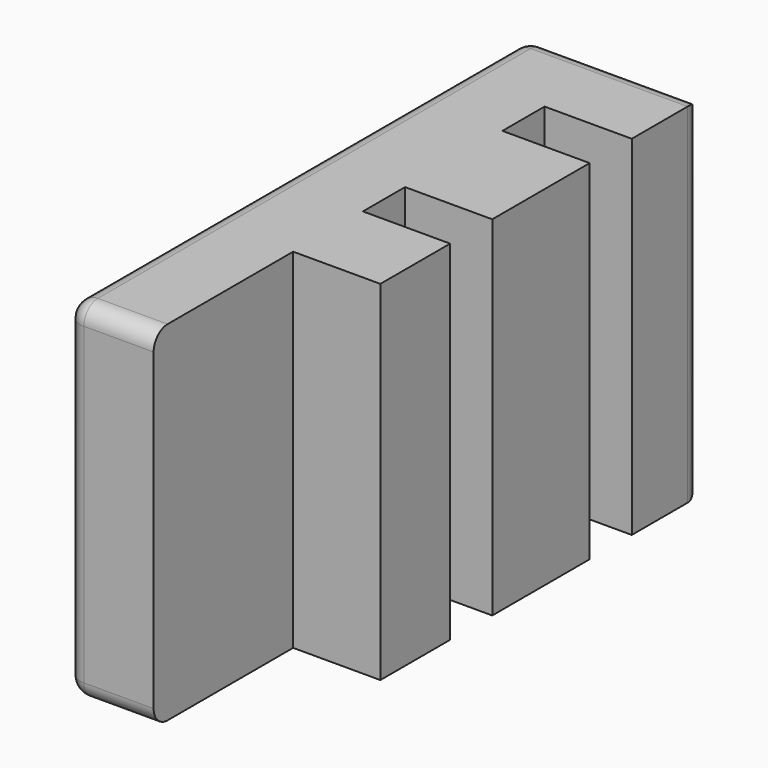
from build123d import *

# Parameters (mm, degrees)
PAD_DEPTH = 20
FILLET_R  = 1


with BuildPart() as part:
    # Sketch → Pad (new body)
    with BuildSketch(Plane.XY):
        Polygon((0, 0), (0, 33.02), (10, 33.02), (10, 28.02), (5, 28.02), (5, 25), (10, 25), (10, 18.02), (5, 18.02), (5, 15), (10, 15), (10, 10), (5, 10), (5, 0), align=None)
    extrude(amount=PAD_DEPTH)

    # Fillet
    fillet_edges = [part.edges().sort_by_distance(p)[0] for p in [
        (0, 33.02, 10),
        (10, 33.02, 10),
        (5, 33.02, 0),
        (5, 33.02, 20),
        (0, 0, 10),
        (0, 16.51, 0),
        (0, 16.51, 20),
        (2.5, 0, 0),
        (2.5, 0, 20),
    ]]
    fillet(fillet_edges, radius=FILLET_R)


solid = part.part
